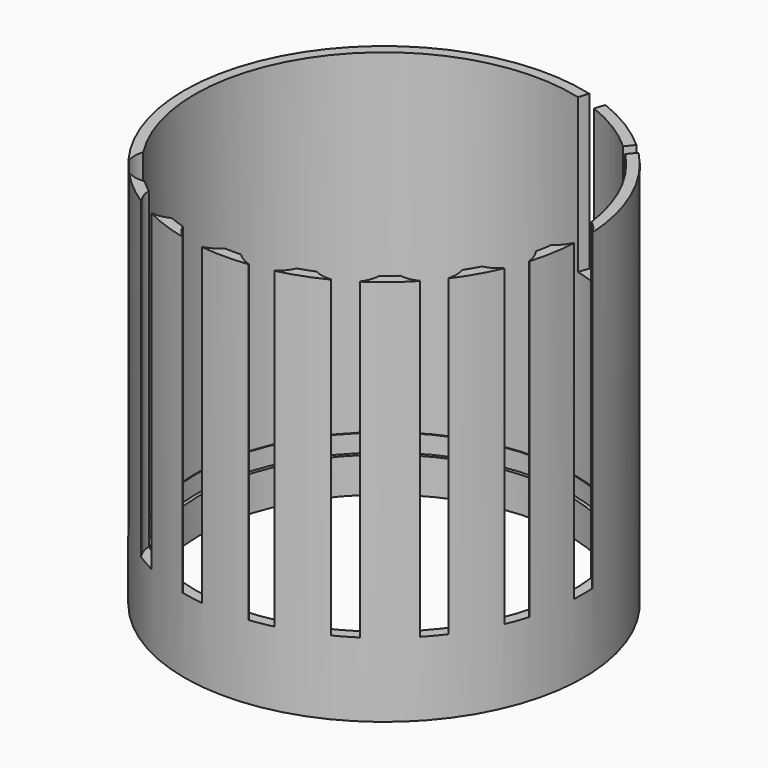
from build123d import *

# Parameters (mm, degrees)
F3_DEPTH = 35.6
F4_DEPTH = 17.5
F5_DEPTH = 6


with BuildPart() as f1:
    # F0 (on Front) → F1 (revolve)
    with BuildSketch(Plane.XZ):
        Polygon((-22.7, 44), (-22.7, 0), (-21, 0), (-21, 4), (-21.4, 4), (-21.4, 6), (-21.5, 6), (-21.5, 44), align=None)
    revolve(axis=Axis((0, 0, 22), (0, 0, 1)))

    # F2 (on face) → F3 (cut)
    with BuildSketch(Plane.XY.offset(44)):
        with BuildLine():
            ThreePointArc((22.7, 0), (22.6931359339, 0.5581948454), (22.6725478867, 1.1160521149))
            ThreePointArc((22.6725478867, 1.1160521149), (22.637726736, 1.2085682904), (22.6001501776, 1.3))
            Line((22.6001501776, 1.3), (21.460661686, 1.3))
            ThreePointArc((21.460661686, 1.3), (21.4901631712, 0.6502975286), (21.5, 0))
            ThreePointArc((21.5, 0), (21.4901631712, -0.6502975286), (21.460661686, -1.3))
            Line((21.460661686, -1.3), (22.6001501776, -1.3))
            ThreePointArc((22.6001501776, -1.3), (22.637726736, -1.2085682904), (22.6725478867, -1.1160521149))
            ThreePointArc((22.6725478867, -1.1160521149), (22.6931359339, -0.5581948454), (22.7, 0))
        make_face()
        with BuildLine():
            Line((21.460661686, 1.3), (22.6001501776, 1.3))
            ThreePointArc((22.6001501776, 1.3), (22.0731627173, 2.1468927393), (21.3172047069, 2.7976389124))
            ThreePointArc((21.3172047069, 2.7976389124), (21.4020371428, 2.050074667), (21.460661686, 1.3))
        make_face()
        with BuildLine():
            ThreePointArc((22.6001501776, 1.3), (22.637726736, 1.2085682904), (22.6725478867, 1.1160521149))
            ThreePointArc((22.6725478867, 1.1160521149), (22.667832914, 1.2080360014), (22.6627447587, 1.3))
            Line((22.6627447587, 1.3), (22.6001501776, 1.3))
        make_face()
        with BuildLine():
            ThreePointArc((22.6627447587, -1.3), (22.667832914, -1.2080360014), (22.6725478867, -1.1160521149))
            ThreePointArc((22.6725478867, -1.1160521149), (22.637726736, -1.2085682904), (22.6001501776, -1.3))
            Line((22.6001501776, -1.3), (22.6627447587, -1.3))
        make_face()
        with BuildLine():
            ThreePointArc((21.3172047069, -2.7976389124), (22.0731627173, -2.1468927393), (22.6001501776, -1.3))
            Line((22.6001501776, -1.3), (21.460661686, -1.3))
            ThreePointArc((21.460661686, -1.3), (21.4020371428, -2.050074667), (21.3172047069, -2.7976389124))
        make_face()
        with BuildLine():
            ThreePointArc((21.460661686, 1.3), (21.4020371428, 2.050074667), (21.3172047069, 2.7976389124))
            ThreePointArc((21.3172047069, 2.7976389124), (16.267, 0), (21.3172047069, -2.7976389124))
            ThreePointArc((21.3172047069, -2.7976389124), (21.4020371428, -2.050074667), (21.460661686, -1.3))
            ThreePointArc((21.460661686, -1.3), (21.4901631712, -0.6502975286), (21.5, 0))
            ThreePointArc((21.5, 0), (21.4901631712, 0.6502975286), (21.460661686, 1.3))
        make_face()
        with BuildLine():
            ThreePointArc((20.6110516098, -6.1183781787), (20.8125032043, -5.3934877744), (20.9884688206, -4.6619927676))
            ThreePointArc((20.9884688206, -4.6619927676), (15.2859798623, -5.5636416715), (19.0747710971, -9.9198340507))
            ThreePointArc((19.0747710971, -9.9198340507), (19.4101695414, -9.2463678477), (19.7217992372, -8.5615789927))
            ThreePointArc((19.7217992372, -8.5615789927), (20.2033913469, -7.3534330815), (20.6110516098, -6.1183781787))
        make_face()
        with BuildLine():
            ThreePointArc((21.6818205369, -6.5081061959), (21.4762686853, -5.5320470115), (20.9884688206, -4.6619927676))
            ThreePointArc((20.9884688206, -4.6619927676), (20.8125032043, -5.3934877744), (20.6110516098, -6.1183781787))
            Line((20.6110516098, -6.1183781787), (21.6818205369, -6.5081061959))
        make_face()
        with BuildLine():
            ThreePointArc((21.6869655109, -6.6923081445), (21.6856790166, -6.6001712509), (21.6818205369, -6.5081061959))
            Line((21.6818205369, -6.5081061959), (20.6110516098, -6.1183781787))
            ThreePointArc((20.6110516098, -6.1183781787), (20.2033913469, -7.3534330815), (19.7217992372, -8.5615789927))
            Line((19.7217992372, -8.5615789927), (20.7925681642, -8.95130701))
            ThreePointArc((20.7925681642, -8.95130701), (20.8591500653, -8.878241247), (20.9235136393, -8.8032140145))
            ThreePointArc((20.9235136393, -8.8032140145), (21.3310224918, -7.7638572535), (21.6869382479, -6.705722141))
            ThreePointArc((21.6869382479, -6.705722141), (21.6869586952, -6.6990151566), (21.6869655109, -6.6923081445))
        make_face()
        with BuildLine():
            ThreePointArc((19.7217992372, -8.5615789927), (19.4101695414, -9.2463678477), (19.0747710971, -9.9198340507))
            ThreePointArc((19.0747710971, -9.9198340507), (20.0077075605, -9.566885541), (20.7925681642, -8.95130701))
            Line((20.7925681642, -8.95130701), (19.7217992372, -8.5615789927))
        make_face()
        with BuildLine():
            ThreePointArc((21.6869382479, -6.705722141), (21.7139679649, -6.6176729459), (21.7406402029, -6.5295148035))
            Line((21.7406402029, -6.5295148035), (21.6818205369, -6.5081061959))
            ThreePointArc((21.6818205369, -6.5081061959), (21.6856790166, -6.6001712509), (21.6869655109, -6.6923081445))
            ThreePointArc((21.6869655109, -6.6923081445), (21.6869586952, -6.6990151566), (21.6869382479, -6.705722141))
        make_face()
        with BuildLine():
            ThreePointArc((20.8513878302, -8.9727156176), (20.8876226722, -8.8880379783), (20.9235136393, -8.8032140145))
            ThreePointArc((20.9235136393, -8.8032140145), (20.8591500653, -8.878241247), (20.7925681642, -8.95130701))
            Line((20.7925681642, -8.95130701), (20.8513878302, -8.9727156176))
        make_face()
        with BuildLine():
            ThreePointArc((17.2754445228, -12.7987896514), (17.7126742195, -12.1865159908), (18.1282138378, -11.5593193161))
            ThreePointArc((18.1282138378, -11.5593193161), (12.4612449562, -10.4562260468), (14.5316385793, -15.8455508014))
            ThreePointArc((14.5316385793, -15.8455508014), (15.0771490298, -15.327412604), (15.6041967376, -14.7905052035))
            ThreePointArc((15.6041967376, -14.7905052035), (16.4699555271, -13.8199336083), (17.2754445228, -12.7987896514))
        make_face()
        with BuildLine():
            ThreePointArc((18.2891916185, -12.5774251587), (18.248698738, -12.0620482693), (18.1282138378, -11.5593193161))
            ThreePointArc((18.1282138378, -11.5593193161), (17.7126742195, -12.1865159908), (17.2754445228, -12.7987896514))
            Line((17.2754445228, -12.7987896514), (18.1483433498, -13.5312387352))
            ThreePointArc((18.1483433498, -13.5312387352), (18.2537896576, -13.0595036206), (18.2891916185, -12.5774251587))
        make_face()
        with BuildLine():
            Line((18.1483433498, -13.5312387352), (17.2754445228, -12.7987896514))
            ThreePointArc((17.2754445228, -12.7987896514), (16.4699555271, -13.8199336083), (15.6041967376, -14.7905052035))
            Line((15.6041967376, -14.7905052035), (16.4770955646, -15.5229542873))
            ThreePointArc((16.4770955646, -15.5229542873), (16.5646520485, -15.4770672804), (16.6507948488, -15.4285783825))
            ThreePointArc((16.6507948488, -15.4285783825), (17.3892088588, -14.5912787399), (18.0855637912, -13.7186873408))
            ThreePointArc((18.0855637912, -13.7186873408), (18.1183574935, -13.6254332344), (18.1483433498, -13.5312387352))
        make_face()
        with BuildLine():
            ThreePointArc((15.6041967376, -14.7905052035), (15.0771490298, -15.327412604), (14.5316385793, -15.8455508014))
            ThreePointArc((14.5316385793, -15.8455508014), (15.5290275895, -15.8329707542), (16.4770955646, -15.5229542873))
            Line((16.4770955646, -15.5229542873), (15.6041967376, -14.7905052035))
        make_face()
        with BuildLine():
            ThreePointArc((18.0855637912, -13.7186873408), (18.1410780151, -13.6451928696), (18.1962935809, -13.5714737564))
            Line((18.1962935809, -13.5714737564), (18.1483433498, -13.5312387352))
            ThreePointArc((18.1483433498, -13.5312387352), (18.1183574935, -13.6254332344), (18.0855637912, -13.7186873408))
        make_face()
        with BuildLine():
            ThreePointArc((16.6507948488, -15.4285783825), (16.5646520485, -15.4770672804), (16.4770955646, -15.5229542873))
            Line((16.4770955646, -15.5229542873), (16.5250457957, -15.5631893085))
            ThreePointArc((16.5250457957, -15.5631893085), (16.5880568676, -15.4960114016), (16.6507948488, -15.4285783825))
        make_face()
        with BuildLine():
            ThreePointArc((9.6044978181, -19.2354782021), (8.9256018301, -19.5597451919), (8.2357759847, -19.86006027))
            ThreePointArc((8.2357759847, -19.86006027), (9.1773177072, -20.1893660248), (10.1742420639, -20.2223041832))
            Line((10.1742420639, -20.2223041832), (9.6044978181, -19.2354782021))
        make_face()
        with BuildLine():
            ThreePointArc((12.3028034268, -19.076976381), (12.3655142097, -19.0005622922), (12.4259081137, -18.9223041832))
            Line((12.4259081137, -18.9223041832), (11.8561638679, -17.9354782021))
            ThreePointArc((11.8561638679, -17.9354782021), (10.75, -18.6195461814), (9.6044978181, -19.2354782021))
            Line((9.6044978181, -19.2354782021), (10.1742420639, -20.2223041832))
            ThreePointArc((10.1742420639, -20.2223041832), (10.2722125263, -20.2091305825), (10.3697444599, -20.1930284959))
            ThreePointArc((10.3697444599, -20.1930284959), (11.35, -19.6587766659), (12.3028034268, -19.076976381))
        make_face()
        with BuildLine():
            ThreePointArc((12.4259081137, -18.9223041832), (12.8958450101, -18.0424732854), (13.0814287222, -17.0624213577))
            ThreePointArc((13.0814287222, -17.0624213577), (12.4764353126, -17.5096705249), (11.8561638679, -17.9354782021))
            Line((11.8561638679, -17.9354782021), (12.4259081137, -18.9223041832))
        make_face()
        with BuildLine():
            ThreePointArc((11.8561638679, -17.9354782021), (12.4764353126, -17.5096705249), (13.0814287222, -17.0624213577))
            ThreePointArc((13.0814287222, -17.0624213577), (13.0829821399, -17.0039793908), (13.0835, -16.9455190759))
            ThreePointArc((13.0835, -16.9455190759), (8.0831308122, -14.1173138808), (8.2357759847, -19.86006027))
            ThreePointArc((8.2357759847, -19.86006027), (8.9256018301, -19.5597451919), (9.6044978181, -19.2354782021))
            ThreePointArc((9.6044978181, -19.2354782021), (10.75, -18.6195461814), (11.8561638679, -17.9354782021))
        make_face()
        with BuildLine():
            Line((12.4572054043, -18.9765126806), (12.4259081137, -18.9223041832))
            ThreePointArc((12.4259081137, -18.9223041832), (12.3655142097, -19.0005622922), (12.3028034268, -19.076976381))
            ThreePointArc((12.3028034268, -19.076976381), (12.380106323, -19.0269011516), (12.4572054043, -18.9765126806))
        make_face()
        with BuildLine():
            ThreePointArc((10.2055393545, -20.2765126806), (10.2877265911, -20.234937153), (10.3697444599, -20.1930284959))
            ThreePointArc((10.3697444599, -20.1930284959), (10.2722125263, -20.2091305825), (10.1742420639, -20.2223041832))
            Line((10.1742420639, -20.2223041832), (10.2055393545, -20.2765126806))
        make_face()
        with BuildLine():
            ThreePointArc((5.0068548722, -20.9088833822), (5.7353541745, -20.7209003784), (6.4568302413, -20.507543569))
            ThreePointArc((6.4568302413, -20.507543569), (6.6369779576, -19.9002545354), (6.6977738924, -19.2697333032))
            ThreePointArc((6.6977738924, -19.2697333032), (2.2143498115, -16.1892288892), (0.9465572593, -21.4791533668))
            ThreePointArc((0.9465572593, -21.4791533668), (1.6974953219, -21.4328838384), (2.4463547144, -21.3603686441))
            ThreePointArc((2.4463547144, -21.3603686441), (3.7334358198, -21.1733666898), (5.0068548722, -20.9088833822))
        make_face()
        with BuildLine():
            ThreePointArc((2.4463547144, -21.3603686441), (1.6974953219, -21.4328838384), (0.9465572593, -21.4791533668))
            ThreePointArc((0.9465572593, -21.4791533668), (1.7186878666, -22.1106257894), (2.6442248144, -22.4825457451))
            Line((2.6442248144, -22.4825457451), (2.4463547144, -21.3603686441))
        make_face()
        with BuildLine():
            ThreePointArc((5.0361433991, -22.1343005235), (5.1212074167, -22.083943119), (5.2047249723, -22.0310604832))
            Line((5.2047249723, -22.0310604832), (5.0068548722, -20.9088833822))
            ThreePointArc((5.0068548722, -20.9088833822), (3.7334358198, -21.1733666898), (2.4463547144, -21.3603686441))
            Line((2.4463547144, -21.3603686441), (2.6442248144, -22.4825457451))
            ThreePointArc((2.6442248144, -22.4825457451), (2.7407925718, -22.5036744814), (2.8379498481, -22.5219013553))
            ThreePointArc((2.8379498481, -22.5219013553), (3.941813633, -22.3551359934), (5.0361433991, -22.1343005235))
        make_face()
        with BuildLine():
            ThreePointArc((5.2047249723, -22.0310604832), (5.9472410958, -21.3650177657), (6.4568302413, -20.507543569))
            ThreePointArc((6.4568302413, -20.507543569), (5.7353541745, -20.7209003784), (5.0068548722, -20.9088833822))
            Line((5.0068548722, -20.9088833822), (5.2047249723, -22.0310604832))
        make_face()
        with BuildLine():
            Line((5.2155944072, -22.092704112), (5.2047249723, -22.0310604832))
            ThreePointArc((5.2047249723, -22.0310604832), (5.1212074167, -22.083943119), (5.0361433991, -22.1343005235))
            ThreePointArc((5.0361433991, -22.1343005235), (5.1259110973, -22.1136843475), (5.2155944072, -22.092704112))
        make_face()
        with BuildLine():
            ThreePointArc((2.6550942494, -22.5441893739), (2.746544657, -22.5332308479), (2.8379498481, -22.5219013553))
            ThreePointArc((2.8379498481, -22.5219013553), (2.7407925718, -22.5036744814), (2.6442248144, -22.4825457451))
            Line((2.6442248144, -22.4825457451), (2.6550942494, -22.5441893739))
        make_face()
        with BuildLine():
            ThreePointArc((-0.0977738924, -19.2697333032), (-4.0282951246, -16.030529238), (-6.4568302413, -20.507543569))
            ThreePointArc((-6.4568302413, -20.507543569), (-5.7353541745, -20.7209003784), (-5.0068548722, -20.9088833822))
            ThreePointArc((-5.0068548722, -20.9088833822), (-3.7334358198, -21.1733666898), (-2.4463547144, -21.3603686441))
            ThreePointArc((-2.4463547144, -21.3603686441), (-1.6974953219, -21.4328838384), (-0.9465572593, -21.4791533668))
            ThreePointArc((-0.9465572593, -21.4791533668), (-0.3172694784, -20.4531573841), (-0.0977738924, -19.2697333032))
        make_face()
        with BuildLine():
            ThreePointArc((-5.0068548722, -20.9088833822), (-5.7353541745, -20.7209003784), (-6.4568302413, -20.507543569))
            ThreePointArc((-6.4568302413, -20.507543569), (-5.9472410958, -21.3650177657), (-5.2047249723, -22.0310604832))
            Line((-5.2047249723, -22.0310604832), (-5.0068548722, -20.9088833822))
        make_face()
        with BuildLine():
            Line((-5.0068548722, -20.9088833822), (-5.2047249723, -22.0310604832))
            ThreePointArc((-5.2047249723, -22.0310604832), (-5.1212074167, -22.083943119), (-5.0361433991, -22.1343005235))
            ThreePointArc((-5.0361433991, -22.1343005235), (-3.941813633, -22.3551359934), (-2.8379498481, -22.5219013553))
            ThreePointArc((-2.8379498481, -22.5219013553), (-2.7407925718, -22.5036744814), (-2.6442248144, -22.4825457451))
            Line((-2.6442248144, -22.4825457451), (-2.4463547144, -21.3603686441))
            ThreePointArc((-2.4463547144, -21.3603686441), (-3.7334358198, -21.1733666898), (-5.0068548722, -20.9088833822))
        make_face()
        with BuildLine():
            ThreePointArc((-2.6442248144, -22.4825457451), (-1.7186878666, -22.1106257894), (-0.9465572593, -21.4791533668))
            ThreePointArc((-0.9465572593, -21.4791533668), (-1.6974953219, -21.4328838384), (-2.4463547144, -21.3603686441))
            Line((-2.4463547144, -21.3603686441), (-2.6442248144, -22.4825457451))
        make_face()
        with BuildLine():
            Line((-2.6550942494, -22.5441893739), (-2.6442248144, -22.4825457451))
            ThreePointArc((-2.6442248144, -22.4825457451), (-2.7407925718, -22.5036744814), (-2.8379498481, -22.5219013553))
            ThreePointArc((-2.8379498481, -22.5219013553), (-2.746544657, -22.5332308479), (-2.6550942494, -22.5441893739))
        make_face()
        with BuildLine():
            ThreePointArc((-5.0361433991, -22.1343005235), (-5.1212074167, -22.083943119), (-5.2047249723, -22.0310604832))
            Line((-5.2047249723, -22.0310604832), (-5.2155944072, -22.092704112))
            ThreePointArc((-5.2155944072, -22.092704112), (-5.1259110973, -22.1136843475), (-5.0361433991, -22.1343005235))
        make_face()
        with BuildLine():
            ThreePointArc((-6.4835, -16.9455190759), (-9.8419603149, -13.6460369359), (-13.0814287222, -17.0624213577))
            ThreePointArc((-13.0814287222, -17.0624213577), (-12.4764353126, -17.5096705249), (-11.8561638679, -17.9354782021))
            ThreePointArc((-11.8561638679, -17.9354782021), (-10.75, -18.6195461814), (-9.6044978181, -19.2354782021))
            ThreePointArc((-9.6044978181, -19.2354782021), (-8.9256018301, -19.5597451919), (-8.2357759847, -19.86006027))
            ThreePointArc((-8.2357759847, -19.86006027), (-6.955294805, -18.6458882636), (-6.4835, -16.9455190759))
        make_face()
        with BuildLine():
            ThreePointArc((-11.8561638679, -17.9354782021), (-12.4764353126, -17.5096705249), (-13.0814287222, -17.0624213577))
            ThreePointArc((-13.0814287222, -17.0624213577), (-12.8958450101, -18.0424732854), (-12.4259081137, -18.9223041832))
            Line((-12.4259081137, -18.9223041832), (-11.8561638679, -17.9354782021))
        make_face()
        with BuildLine():
            Line((-11.8561638679, -17.9354782021), (-12.4259081137, -18.9223041832))
            ThreePointArc((-12.4259081137, -18.9223041832), (-12.3655142097, -19.0005622922), (-12.3028034268, -19.076976381))
            ThreePointArc((-12.3028034268, -19.076976381), (-11.35, -19.6587766659), (-10.3697444599, -20.1930284959))
            ThreePointArc((-10.3697444599, -20.1930284959), (-10.2722125263, -20.2091305825), (-10.1742420639, -20.2223041832))
            Line((-10.1742420639, -20.2223041832), (-9.6044978181, -19.2354782021))
            ThreePointArc((-9.6044978181, -19.2354782021), (-10.75, -18.6195461814), (-11.8561638679, -17.9354782021))
        make_face()
        with BuildLine():
            ThreePointArc((-10.1742420639, -20.2223041832), (-9.1773177072, -20.1893660248), (-8.2357759847, -19.86006027))
            ThreePointArc((-8.2357759847, -19.86006027), (-8.9256018301, -19.5597451919), (-9.6044978181, -19.2354782021))
            Line((-9.6044978181, -19.2354782021), (-10.1742420639, -20.2223041832))
        make_face()
        with BuildLine():
            ThreePointArc((-10.1742420639, -20.2223041832), (-10.2722125263, -20.2091305825), (-10.3697444599, -20.1930284959))
            ThreePointArc((-10.3697444599, -20.1930284959), (-10.2877265911, -20.234937153), (-10.2055393545, -20.2765126806))
            Line((-10.2055393545, -20.2765126806), (-10.1742420639, -20.2223041832))
        make_face()
        with BuildLine():
            Line((-12.4259081137, -18.9223041832), (-12.4572054043, -18.9765126806))
            ThreePointArc((-12.4572054043, -18.9765126806), (-12.380106323, -19.0269011516), (-12.3028034268, -19.076976381))
            ThreePointArc((-12.3028034268, -19.076976381), (-12.3655142097, -19.0005622922), (-12.4259081137, -18.9223041832))
        make_face()
        with BuildLine():
            ThreePointArc((-11.6891916185, -12.5774251587), (-14.4738147291, -9.3179180393), (-18.1282138378, -11.5593193161))
            ThreePointArc((-18.1282138378, -11.5593193161), (-17.7126742195, -12.1865159908), (-17.2754445228, -12.7987896514))
            ThreePointArc((-17.2754445228, -12.7987896514), (-16.4699555271, -13.8199336083), (-15.6041967376, -14.7905052035))
            ThreePointArc((-15.6041967376, -14.7905052035), (-15.0771490298, -15.327412604), (-14.5316385793, -15.8455508014))
            ThreePointArc((-14.5316385793, -15.8455508014), (-12.4992192262, -14.743074596), (-11.6891916185, -12.5774251587))
        make_face()
        with BuildLine():
            ThreePointArc((-17.2754445228, -12.7987896514), (-17.7126742195, -12.1865159908), (-18.1282138378, -11.5593193161))
            ThreePointArc((-18.1282138378, -11.5593193161), (-18.2890196939, -12.5437402484), (-18.1483433498, -13.5312387352))
            Line((-18.1483433498, -13.5312387352), (-17.2754445228, -12.7987896514))
        make_face()
        with BuildLine():
            Line((-17.2754445228, -12.7987896514), (-18.1483433498, -13.5312387352))
            ThreePointArc((-18.1483433498, -13.5312387352), (-18.1183574935, -13.6254332344), (-18.0855637912, -13.7186873408))
            ThreePointArc((-18.0855637912, -13.7186873408), (-17.3892088588, -14.5912787399), (-16.6507948488, -15.4285783825))
            ThreePointArc((-16.6507948488, -15.4285783825), (-16.5646520485, -15.4770672804), (-16.4770955646, -15.5229542873))
            Line((-16.4770955646, -15.5229542873), (-15.6041967376, -14.7905052035))
            ThreePointArc((-15.6041967376, -14.7905052035), (-16.4699555271, -13.8199336083), (-17.2754445228, -12.7987896514))
        make_face()
        with BuildLine():
            ThreePointArc((-16.4770955646, -15.5229542873), (-15.5290275895, -15.8329707542), (-14.5316385793, -15.8455508014))
            ThreePointArc((-14.5316385793, -15.8455508014), (-15.0771490298, -15.327412604), (-15.6041967376, -14.7905052035))
            Line((-15.6041967376, -14.7905052035), (-16.4770955646, -15.5229542873))
        make_face()
        with BuildLine():
            Line((-18.1483433498, -13.5312387352), (-18.1962935809, -13.5714737564))
            ThreePointArc((-18.1962935809, -13.5714737564), (-18.1410780151, -13.6451928696), (-18.0855637912, -13.7186873408))
            ThreePointArc((-18.0855637912, -13.7186873408), (-18.1183574935, -13.6254332344), (-18.1483433498, -13.5312387352))
        make_face()
        with BuildLine():
            ThreePointArc((-16.4770955646, -15.5229542873), (-16.5646520485, -15.4770672804), (-16.6507948488, -15.4285783825))
            ThreePointArc((-16.6507948488, -15.4285783825), (-16.5880568676, -15.4960114016), (-16.5250457957, -15.5631893085))
            Line((-16.5250457957, -15.5631893085), (-16.4770955646, -15.5229542873))
        make_face()
    extrude(amount=-F3_DEPTH, mode=Mode.SUBTRACT)

    # F2 (on face) → F4 (cut)
    with BuildSketch(Plane.XY.offset(44)):
        with BuildLine():
            Line((7.8680826427, 20.0085800478), (8.2395467408, 21.1518289873))
            ThreePointArc((8.2395467408, 21.1518289873), (7.0146857723, 21.5889829199), (5.7667997985, 21.9552731726))
            Line((5.7667997985, 21.9552731726), (5.3953357003, 20.8120242331))
            ThreePointArc((5.3953357003, 20.8120242331), (6.6438653791, 20.4477151003), (7.8680826427, 20.0085800478))
        make_face()
        with BuildLine():
            Line((7.7132841623, 19.5321593131), (7.8680826427, 20.0085800478))
            ThreePointArc((7.8680826427, 20.0085800478), (6.6438653791, 20.4477151003), (5.3953357003, 20.8120242331))
            Line((5.3953357003, 20.8120242331), (5.2405372199, 20.3356034985))
            ThreePointArc((5.2405372199, 20.3356034985), (6.4893568819, 19.9721868422), (7.7132841623, 19.5321593131))
        make_face()
    extrude(amount=-F4_DEPTH, mode=Mode.SUBTRACT)

    # F2 (on face) → F5 (cut)
    with BuildSketch(Plane.XY.offset(44)):
        with BuildLine():
            Line((15.5025304569, 14.8970315645), (16.2780902413, 15.8213077239))
            ThreePointArc((16.2780902413, 15.8213077239), (15.7452067457, 16.3517113641), (15.1950501559, 16.8641765515))
            Line((15.1950501559, 16.8641765515), (14.4231987776, 15.9443198984))
            ThreePointArc((14.4231987776, 15.9443198984), (14.9720246048, 15.4301159825), (15.5025304569, 14.8970315645))
        make_face()
        with BuildLine():
            Line((15.1792371354, 14.5117455872), (15.5025304569, 14.8970315645))
            ThreePointArc((15.5025304569, 14.8970315645), (14.9720246048, 15.4301159825), (14.4231987776, 15.9443198984))
            Line((14.4231987776, 15.9443198984), (14.1015769428, 15.5610259214))
            ThreePointArc((14.1015769428, 15.5610259214), (14.6498042846, 15.0460371668), (15.1792371354, 14.5117455872))
        make_face()
    extrude(amount=-F5_DEPTH, mode=Mode.SUBTRACT)


solid = f1.part
